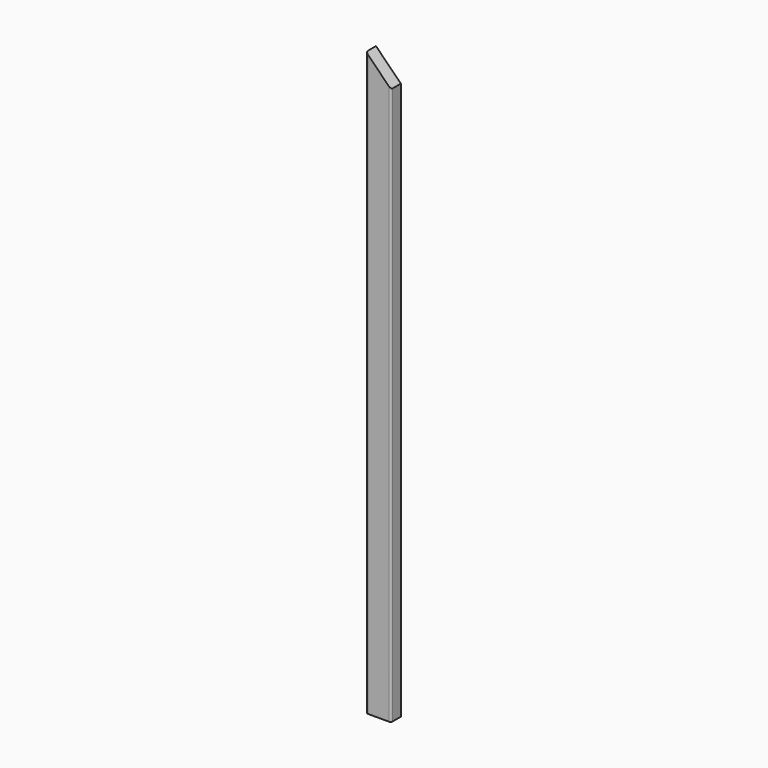
from build123d import *

# Parameters (mm, degrees)
F0_W     = 38.1
F0_H     = 890.5875
F1_DEPTH = 19.05
F3_DEPTH = 19.051
F4_R     = 3.175


with BuildPart() as f1:
    # F0 (on Front) → F1 (new body)
    with BuildSketch(Plane.XZ):
        Rectangle(F0_W, F0_H)
    extrude(amount=F1_DEPTH)

    # F2 (on face) → F3 (cut, through all)
    with BuildSketch(Plane.XZ.offset(19.05)):
        Polygon((19.05, 445.29375), (-19.05, 445.29375), (19.05, 407.19375), align=None)
    extrude(amount=-F3_DEPTH, mode=Mode.SUBTRACT)

    # F4
    f4_edges = [f1.edges().sort_by_distance(p)[0] for p in [
        (-19.05, -19.05, 0),
        (19.05, -19.05, -19.05),
    ]]
    fillet(f4_edges, radius=F4_R)


solid = f1.part
